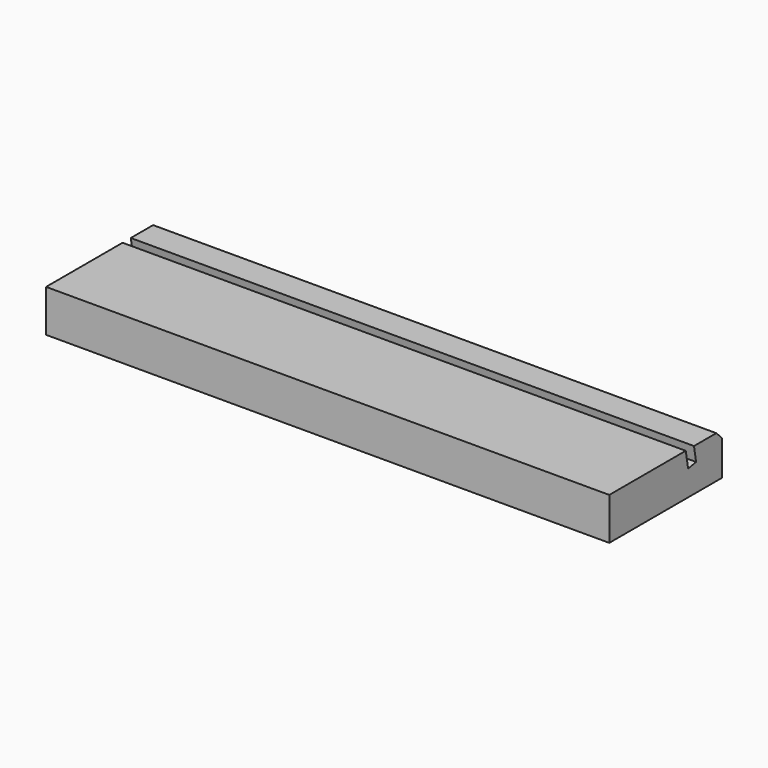
from build123d import *

# Parameters (mm, degrees)
F0_W     = 63.5
F0_H     = 19.05
F1_DEPTH = 254
F2_SIZE  = 3.175
F4_DEPTH = 254.001


with BuildPart() as f1:
    # F0 (on Right) → F1 (new body)
    with BuildSketch(Plane.YZ):
        with Locations((31.75, 9.525)):
            Rectangle(F0_W, F0_H)
    extrude(amount=F1_DEPTH)

    # F2
    f2_edges = [f1.edges().sort_by_distance(p)[0] for p in [
        (127, 63.5, 19.05),
    ]]
    chamfer(f2_edges, length=F2_SIZE)

    # F3 (on face) → F4 (cut, through all)
    with BuildSketch(Plane.YZ.offset(254)):
        Polygon((45.888826, 29.599109), (41.386285, 28.80519), (44.45, 11.43), (48.952541, 12.223919), align=None)
    extrude(amount=-F4_DEPTH, mode=Mode.SUBTRACT)


with BuildPart() as f5_1:
    # F5: copy of F1
    add(f1.part.moved(Location((0, 0, 82.55))))


with BuildPart() as f6_1:
    # F6: copy of F1
    add(f1.part.moved(Location((0, 0, 165.1))))


with BuildPart() as f7_1:
    # F7: copy of F1
    add(f1.part.moved(Location((0, 0, 247.65))))


solid = f1.part
